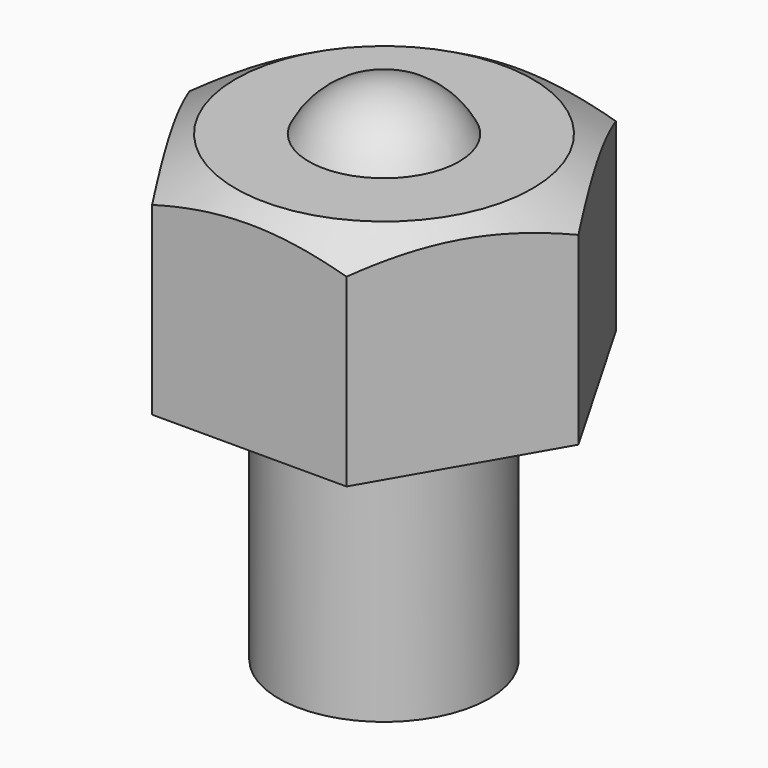
from build123d import *

# Parameters (mm, degrees)
F1_DEPTH = 5
F2_R     = 2.5
F3_DEPTH = 6


with BuildPart() as f1:
    # F0 (on Top) → F1 (new body)
    with BuildSketch(Plane.XY):
        Polygon((2.309401, 4), (-2.309401, 4), (-4.618802, 0), (-2.309401, -4), (2.309401, -4), (4.618802, 0), align=None)
    extrude(amount=F1_DEPTH)

    # F2 (on face) → F3 (join)
    with BuildSketch(Plane(origin=(0, 0, 0), x_dir=(1, 0, 0), z_dir=(0, 0, -1))):
        Circle(F2_R)
    extrude(amount=F3_DEPTH)

    # F4 (on Front) → F5 (revolve, cut)
    with BuildSketch(Plane.XZ):
        Polygon((1.241204, 6.975186), (1.241204, 6.27986), (5.267579, 4.024274), (5.267579, 6.975186), align=None)
    revolve(axis=Axis((0, 0, 6.94047), (0, 0, -1)), mode=Mode.SUBTRACT)

    # F6 (on Front) → F7 (revolve)
    with BuildSketch(Plane.XZ):
        with BuildLine():
            Line((0, 6.1), (0, 2.1))
            ThreePointArc((0, 2.1), (2, 4.1), (0, 6.1))
        make_face()
    revolve(axis=Axis((0, 0, 4.1), (0, 0, -1)))


solid = f1.part
